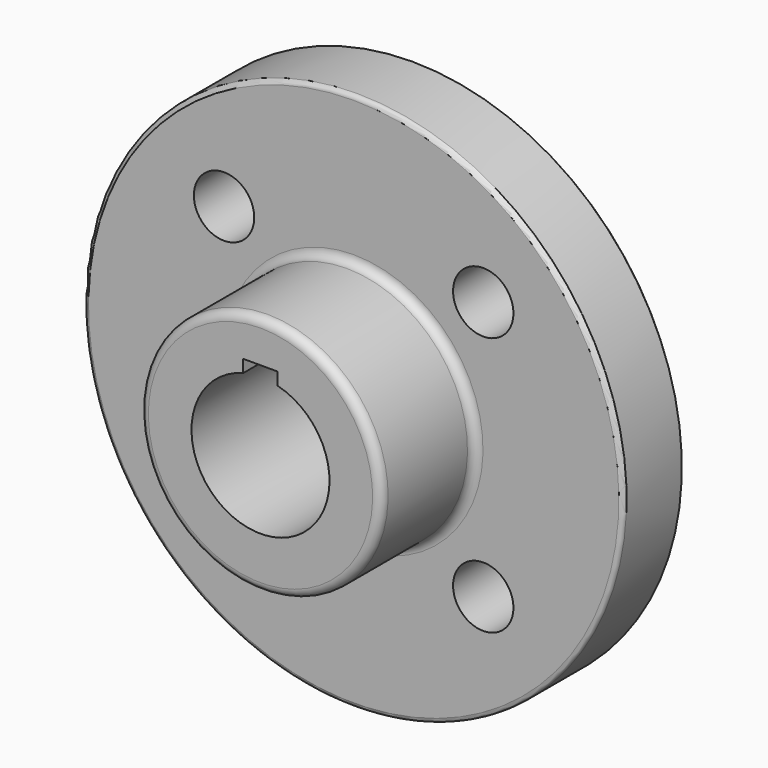
from build123d import *

# Parameters (mm, degrees)
F3_DEPTH = 45.001
F5_D     = 14
F6_R     = 2
F7_R     = 1
F8_SIZE  = 1
F9_R     = 0.5
F10_R    = 0.4


with BuildPart() as f1:
    # F0 (on Right) → F1 (revolve)
    with BuildSketch(Plane.YZ):
        Polygon((-2, 26), (0, 26), (0, 62.5), (-18, 62.5), (-18, 28), (-45, 28), (-45, 16), (-2, 16), align=None)
    revolve(axis=Axis((0, -22.398166, 0), (0, 1, 0)))

    # F2 (on face) → F3 (cut, through all)
    with BuildSketch(Plane.XZ.offset(45)):
        with BuildLine():
            ThreePointArc((4, 15.491933), (0, 16), (-4, 15.491933))
            Line((-4, 15.491933), (-4, 12))
            Line((-4, 12), (4, 12))
            Line((4, 12), (4, 15.491933))
        make_face()
        with BuildLine():
            Line((4, 18.4), (-4, 18.4))
            Line((-4, 18.4), (-4, 15.491933))
            ThreePointArc((-4, 15.491933), (0, 16), (4, 15.491933))
            Line((4, 15.491933), (4, 18.4))
        make_face()
    extrude(amount=-F3_DEPTH, mode=Mode.SUBTRACT)

    # F5 (through all)
    with Locations(Plane.XZ.offset(18)):
        with Locations((30.052038, 30.052038), (30.052038, -30.052038), (-30.052038, -30.052038), (-30.052038, 30.052038)):
            Hole(F5_D / 2)

    # F6
    f6_edges = [f1.edges().sort_by_distance(p)[0] for p in [
        (0, -18, -28),
        (0, -45, -28),
    ]]
    fillet(f6_edges, radius=F6_R)

    # F7
    f7_edges = [f1.edges().sort_by_distance(p)[0] for p in [
        (0, -18, -62.5),
    ]]
    fillet(f7_edges, radius=F7_R)

    # F8
    f8_edges = [f1.edges().sort_by_distance(p)[0] for p in [
        (0, 0, -62.5),
    ]]
    chamfer(f8_edges, length=F8_SIZE)

    # F9
    f9_edges = [f1.edges().sort_by_distance(p)[0] for p in [
        (0, 0, -26),
    ]]
    fillet(f9_edges, radius=F9_R)

    # F10
    f10_edges = [f1.edges().sort_by_distance(p)[0] for p in [
        (0, -2, -26),
    ]]
    fillet(f10_edges, radius=F10_R)


solid = f1.part
